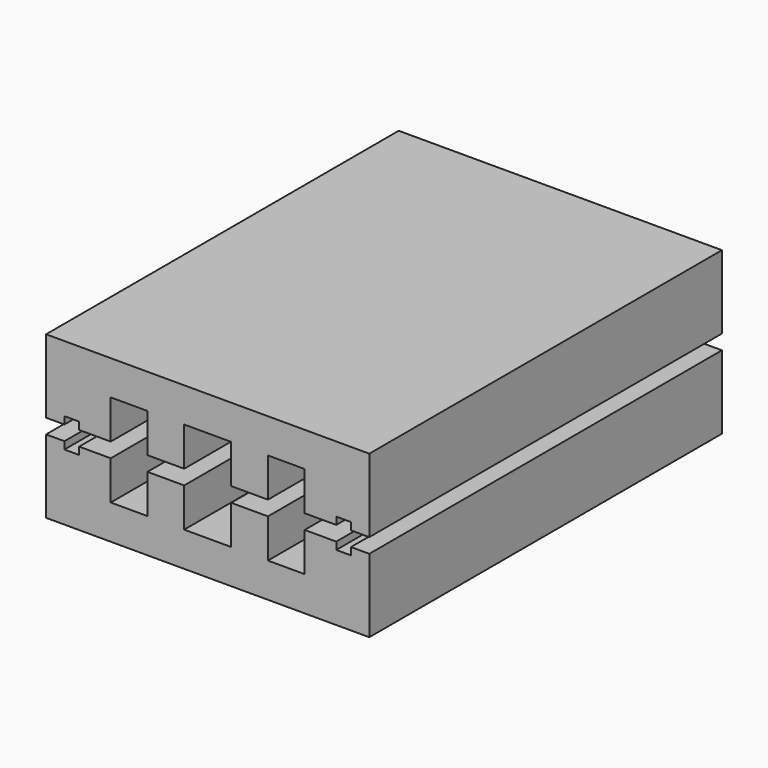
from build123d import *

# Parameters (mm, degrees)
F1_DEPTH = 300


with BuildPart() as f1:
    # F0 (on Front) → F1 (new body)
    with BuildSketch(Plane.XZ):
        Polygon((-110, 55), (-110, 40), (0, 40), (110, 40), (110, 55), (0, 55), align=None)
        Polygon((0, -40), (-110, -40), (-110, -55), (0, -55), (110, -55), (110, -40), align=None)
        Polygon((-16, -31.5), (-16, -5), (-41, -5), (-41, -31.5), (-66, -31.5), (-66, -5), (-87.5, -5), (-87.5, -10), (-97.5, -10), (-97.5, -5), (-110, -5), (-110, -40), (0, -40), (110, -40), (110, -5), (97.5, -5), (97.5, -10), (87.5, -10), (87.5, -5), (66, -5), (66, -31.5), (41, -31.5), (41, -5), (16, -5), (16, -31.5), align=None)
        Polygon((-41, 5), (-16, 5), (-16, 31.5), (16, 31.5), (16, 5), (41, 5), (41, 31.5), (66, 31.5), (66, 5), (75, 5), (87.5, 5), (87.5, 10), (97.5, 10), (97.5, 5), (110, 5), (110, 31.5), (110, 40), (0, 40), (-110, 40), (-110, 31.5), (-110, 5), (-97.5, 5), (-97.5, 10), (-87.5, 10), (-87.5, 5), (-75, 5), (-66, 5), (-66, 31.5), (-41, 31.5), align=None)
    extrude(amount=F1_DEPTH)


solid = f1.part
